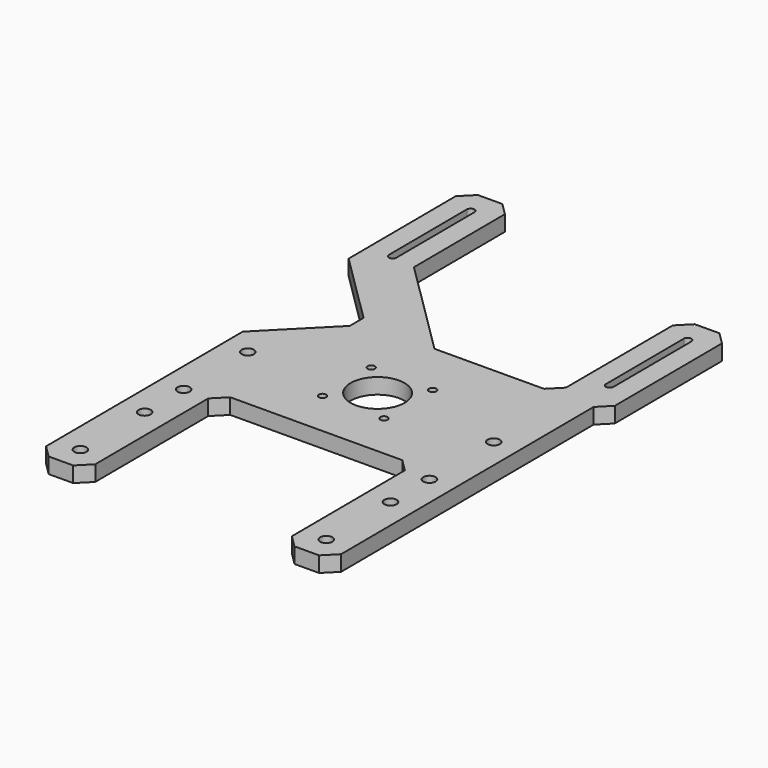
from build123d import *

# Parameters (mm, degrees)
SKETCH015_R             = 2.5
SKETCH015_R_2           = 11
SKETCH015_R_3           = 1.5
PAD_DEPTH               = 6.35
BODY004_PLACEMENT_ANGLE = 0.285111


with BuildPart() as part:
    # Sketch015 → Pad (new body)
    with BuildSketch(Plane(origin=(0, 0, 0), x_dir=(1, 0, 0), z_dir=(0, 0, -1))):
        Polygon((-60, -6.5), (-60, 94.5), (-55, 99.5), (-45, 99.5), (-40, 94.5), (-40, 36.5), (-35, 31.5), (35, 31.5), (40, 36.5), (40, 94.5), (45, 99.5), (55, 99.5), (60, 94.5), (60, -35.175), (64.825, -40), (64.825, -95), (59.825, -100), (49.825, -100), (44.825, -95), (44.825, -40.175), (39.825, -35.175), (-4.715729, -35.175), (-44.825, -75.284271), (-44.825, -122), (-49.825, -127), (-59.825, -127), (-64.825, -122), (-64.825, -67), (-35.698034, -37.873034), (-35.698034, -30.801966), align=None)
        with Locations((-50, 89.5)):
            Circle(SKETCH015_R, mode=Mode.SUBTRACT)
        with Locations((-50, 36.5)):
            Circle(SKETCH015_R, mode=Mode.SUBTRACT)
        with Locations((50, 36.5)):
            Circle(SKETCH015_R, mode=Mode.SUBTRACT)
        Circle(SKETCH015_R_2, mode=Mode.SUBTRACT)
        with Locations((50, 89.5)):
            Circle(SKETCH015_R, mode=Mode.SUBTRACT)
        with Locations((-12.5, 12.5)):
            Circle(SKETCH015_R_3, mode=Mode.SUBTRACT)
        with Locations((12.5, 12.5)):
            Circle(SKETCH015_R_3, mode=Mode.SUBTRACT)
        with Locations((12.5, -12.5)):
            Circle(SKETCH015_R_3, mode=Mode.SUBTRACT)
        with Locations((-12.5, -12.5)):
            Circle(SKETCH015_R_3, mode=Mode.SUBTRACT)
        with Locations((-50, 3.5)):
            Circle(SKETCH015_R, mode=Mode.SUBTRACT)
        with Locations((-50, 56.5)):
            Circle(SKETCH015_R, mode=Mode.SUBTRACT)
        with Locations((50, 56.5)):
            Circle(SKETCH015_R, mode=Mode.SUBTRACT)
        with Locations((50, 3.5)):
            Circle(SKETCH015_R, mode=Mode.SUBTRACT)
        with BuildLine():
            ThreePointArc((-53.275, -77), (-54.825, -75.45), (-56.375, -77))
            Line((-56.375, -77), (-56.375, -117))
            ThreePointArc((-56.375, -117), (-54.825, -118.55), (-53.275, -117))
            Line((-53.275, -117), (-53.275, -77))
        make_face(mode=Mode.SUBTRACT)
        with BuildLine():
            ThreePointArc((56.375, -50), (54.825, -48.45), (53.275, -50))
            Line((53.275, -50), (53.275, -90))
            ThreePointArc((53.275, -90), (54.825, -91.55), (56.375, -90))
            Line((56.375, -90), (56.375, -50))
        make_face(mode=Mode.SUBTRACT)
    extrude(amount=PAD_DEPTH)


with BuildPart() as part_1:
    # Body004 placement: moved
    add(part.part.moved(Location((45.071194, -32.948698, 1.778014))).rotate(Axis((45.071194, -32.948698, 1.778014), (0, 0, 1)), BODY004_PLACEMENT_ANGLE))


solid = part_1.part
